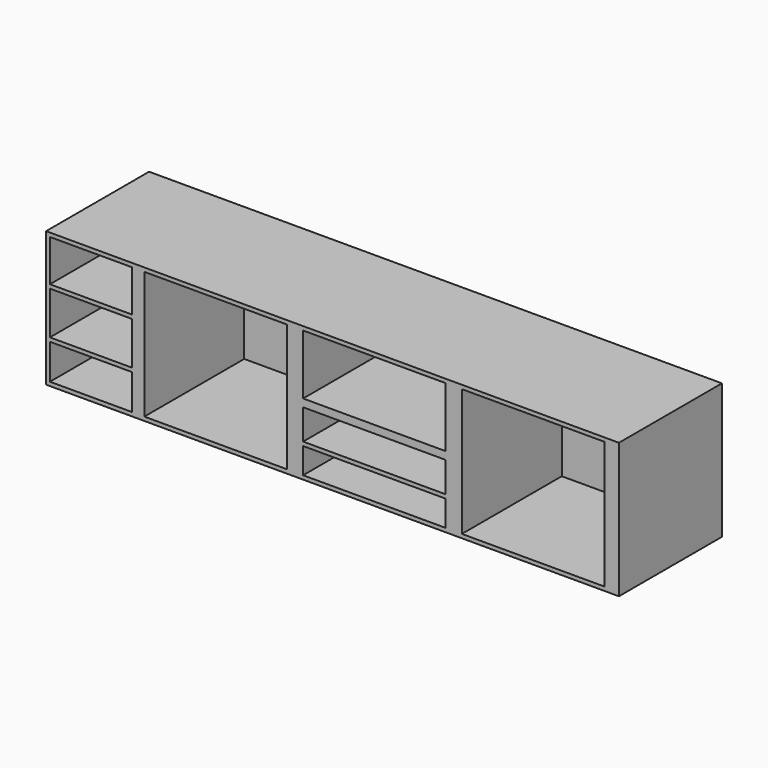
from build123d import *

# Parameters (mm, degrees)
F0_W     = 382
F0_H     = 18
F0_W_2   = 700
F0_H_2   = 630
F0_W_3   = 664
F0_H_3   = 594
F0_H_4   = 315
F0_H_5   = 279
F0_W_4   = 50
F1_DEPTH = 600
F2_W     = 2670
F2_H     = 630
F3_DEPTH = 18


with BuildPart() as f1:
    # F0 (on Front) → F1 (new body)
    with BuildSketch(Plane.XZ):
        with Locations((209, 9)):
            Rectangle(F0_W, F0_H)
        Polygon((0, 630), (0, 0), (18, 0), (18, 18), (18, 182), (18, 200), (18, 400), (18, 418), (18, 612), (400, 612), (400, 418), (400, 400), (400, 200), (400, 182), (400, 18), (400, 0), (440, 0), (440, 630), (400, 630), align=None)
        with Locations((790, 315)):
            Rectangle(F0_W_2, F0_H_2)
        with Locations((790, 315)):
            Rectangle(F0_W_3, F0_H_3, mode=Mode.SUBTRACT)
        Polygon((1140, 630), (1140, 0), (1180, 0), (1180, 315), (1180, 630), align=None)
        with Locations((1530, 472.5)):
            Rectangle(F0_W_2, F0_H_4)
        with Locations((1530, 472.5)):
            Rectangle(F0_W_3, F0_H_5, mode=Mode.SUBTRACT)
        with Locations((1530, 157.5)):
            Rectangle(F0_W_2, F0_H_4)
        Polygon((1198, 297), (1862, 297), (1862, 156), (1862, 138), (1862, 18), (1198, 18), (1198, 138), (1198, 156), align=None, mode=Mode.SUBTRACT)
        Polygon((1880, 315), (1880, 0), (1920, 0), (1920, 315), (1920, 630), (1880, 630), align=None)
        Polygon((1920, 315), (1920, 0), (2620, 0), (2620, 630), (1920, 630), align=None)
        with Locations((2270, 315)):
            Rectangle(F0_W_3, F0_H_3, mode=Mode.SUBTRACT)
        with Locations((2645, 315)):
            Rectangle(F0_W_4, F0_H_2)
        Polygon((0, 630), (0, 0), (18, 0), (18, 18), (18, 182), (18, 200), (18, 400), (18, 418), (18, 612), (400, 612), (400, 418), (400, 400), (400, 200), (400, 182), (400, 18), (400, 0), (440, 0), (440, 630), (400, 630), align=None)
        with Locations((209, 191)):
            Rectangle(F0_W, F0_H)
        with Locations((209, 409)):
            Rectangle(F0_W, F0_H)
        with Locations((1530, 472.5)):
            Rectangle(F0_W_2, F0_H_4)
        with Locations((1530, 472.5)):
            Rectangle(F0_W_3, F0_H_5, mode=Mode.SUBTRACT)
        with Locations((1530, 147)):
            Rectangle(F0_W_3, F0_H)
    extrude(amount=-F1_DEPTH)

    # F2 (on face) → F3 (join)
    with BuildSketch(Plane(origin=(0, 600, 0), x_dir=(-1, 0, 0), z_dir=(0, 1, 0))):
        with Locations((-1335, 315)):
            Rectangle(F2_W, F2_H)
    extrude(amount=-F3_DEPTH)


solid = f1.part
